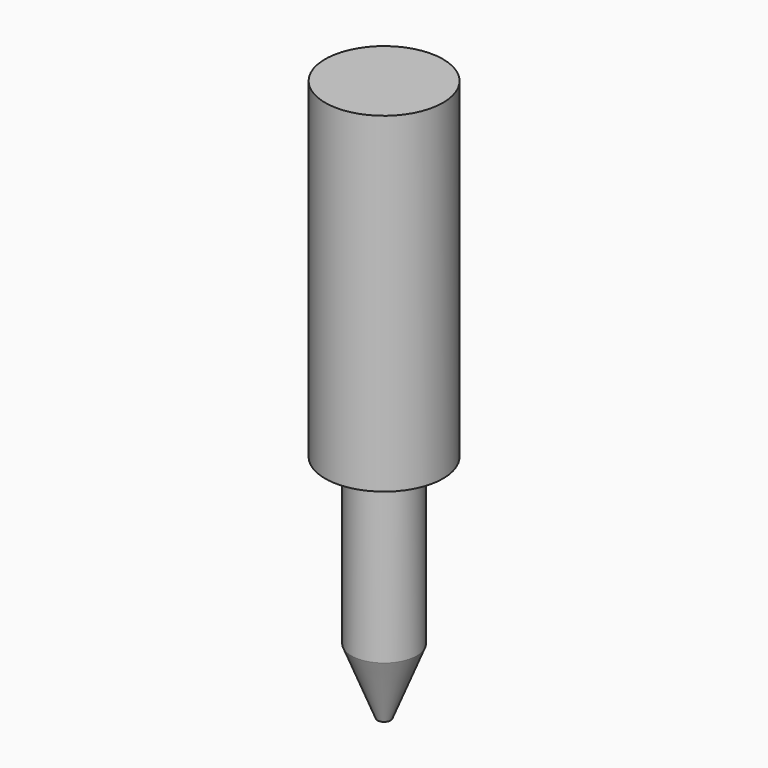
from build123d import *

# Parameters (mm, degrees)
CYLINDER012_R     = 0.5
CYLINDER012_DEPTH = 2.51
CYLINDER011_R     = 0.9
CYLINDER011_DEPTH = 5.05


with BuildPart() as cylinder012:
    # Cylinder012 → Cylinder012 (new body)
    with BuildSketch(Plane(origin=(2.54, 0, -2.51), x_dir=(1, 0, 0), z_dir=(0, 0, 1))):
        Circle(CYLINDER012_R)
    extrude(amount=CYLINDER012_DEPTH)


with BuildPart() as cone005:
    # Cone005 → Cone005 (revolve)
    with BuildSketch(Plane(origin=(2.54, 0, -3.51), x_dir=(1, 0, 0), z_dir=(0, -1, 0))):
        Polygon((0, 0), (0.1, 0), (0.5, 1), (0, 1), align=None)
    revolve(axis=Axis((2.54, 0, -3.51), (0, 0, 1)))


with BuildPart() as fusion005:
    # Cylinder011 → Cylinder011 (new body)
    with BuildSketch(Plane(origin=(2.54, 0, 0), x_dir=(1, 0, 0), z_dir=(0, 0, 1))):
        Circle(CYLINDER011_R)
    extrude(amount=CYLINDER011_DEPTH)

    # Fusion005: union Cylinder012, Cone005
    add(cylinder012.part)
    add(cone005.part)


with BuildPart() as fusion005_1:
    # Fusion005 placement: moved
    add(fusion005.part.moved(Location((45.72, 34.29, 0))))


solid = fusion005_1.part
